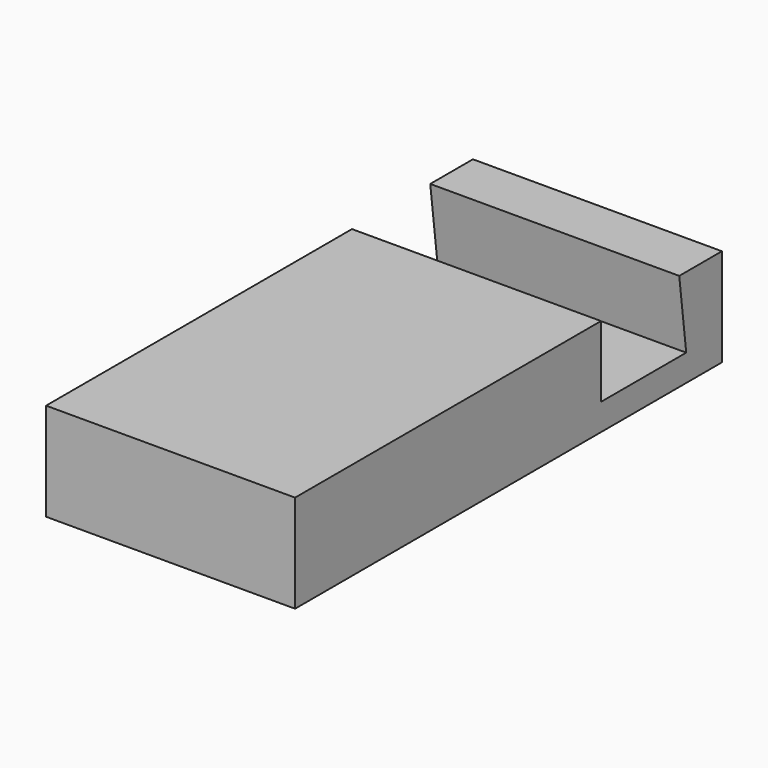
from build123d import *

# Parameters (mm, degrees)
PAD_DEPTH = 14


with BuildPart() as part:
    # Sketch → Pad (new body, symmetric)
    with BuildSketch(Plane.YZ):
        Polygon((0, 11), (0, 0), (60, 0), (60, 11), (54, 11), (54.982276, 3), (43, 3), (43, 11), align=None)
    extrude(amount=PAD_DEPTH, both=True)


solid = part.part
